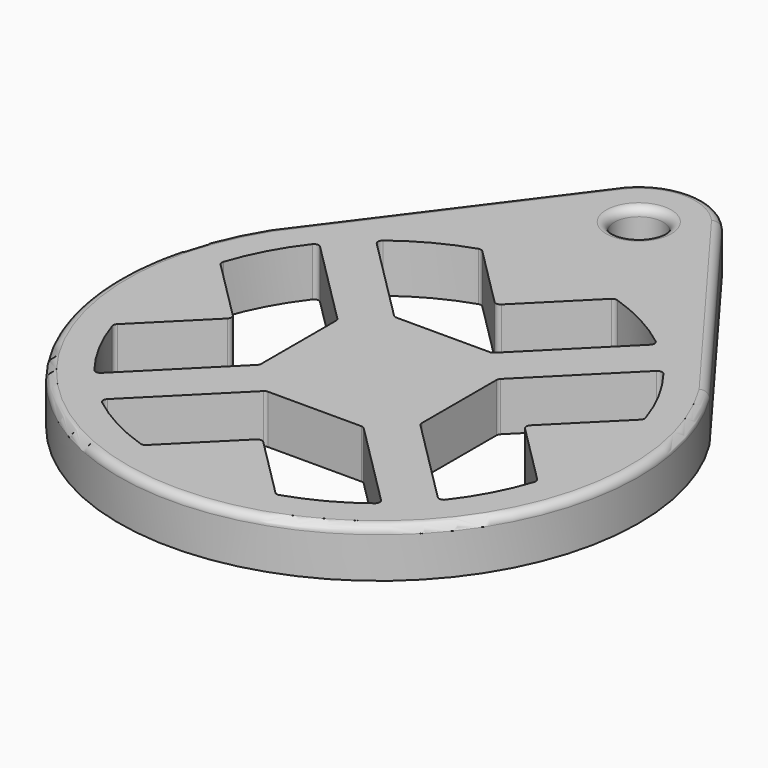
from build123d import *

# Parameters (mm, degrees)
SKETCH_R           = 1.5
PAD_DEPTH          = 3
FILLET_R           = 0.5
POCKET_DEPTH       = 105.626533
FILLET001_R        = 0.3
POLARPATTERN_COUNT = 4
FILLET002_R        = 0.3
FILLET003_R        = 0.3
FILLET004_R        = 0.3


with BuildPart() as part:
    # Sketch → Pad (new body)
    with BuildSketch(Plane.XY):
        with BuildLine():
            Line((-13.555442, 8.5), (-3.039737, 22.6))
            ThreePointArc((3.039737, 22.6), (0, 24), (-3.039737, 22.6))
            Line((3.039737, 22.6), (13.555442, 8.5))
            ThreePointArc((-13.555442, 8.5), (0, -16), (13.555442, 8.5))
        make_face()
        with Locations((0, 20)):
            Circle(SKETCH_R, mode=Mode.SUBTRACT)
    extrude(amount=PAD_DEPTH)

    # Fillet
    fillet_edges = [part.edges().sort_by_distance(p)[0] for p in [
        (8.297589, 15.55, 3),
        (0, -16, 3),
        (-8.297589, 15.55, 3),
        (0, 24, 3),
        (-1.5, 20, 3),
    ]]
    fillet(fillet_edges, radius=FILLET_R)

    # Sketch001 (on Face6 of Pad) → Pocket (cut, through all)
    with BuildSketch(Plane(origin=(0, 0, 0), x_dir=(1, 0, 0), z_dir=(0, 0, -1))):
        with BuildLine():
            Line((-3, 4.94), (3, 4.94))
            Line((3, 4.94), (8.656854, 10.596854))
            ThreePointArc((8.656854, 10.596854), (6.496296, 12.042948), (4.101219, 13.054288))
            Line((4.101219, 13.054288), (0, 8.953069))
            Line((0, 8.953069), (-4.101219, 13.054288))
            ThreePointArc((-4.101219, 13.054288), (-6.496296, 12.042948), (-8.656854, 10.596854))
            Line((-8.656854, 10.596854), (-3, 4.94))
        make_face()
    pocket = extrude(amount=-POCKET_DEPTH, mode=Mode.SUBTRACT)

    # Fillet001
    fillet001_edges = [part.edges().sort_by_distance(p)[0] for p in [
        (-3, -4.94, 1.5),
        (3, -4.94, 1.5),
        (-8.656854, -10.596854, 1.5),
        (0, -8.953069, 1.5),
        (8.656854, -10.596854, 1.5),
        (4.101219, -13.054288, 1.5),
        (-4.101219, -13.054288, 1.5),
    ]]
    fillet(fillet001_edges, radius=FILLET001_R)

    # PolarPattern: Pocket ×4 about axis
    polarpattern_axis = Axis((0, 0, 0), (0, 0, -1))
    for i in range(1, POLARPATTERN_COUNT):
        add(pocket.rotate(polarpattern_axis, i * 360 / POLARPATTERN_COUNT), mode=Mode.SUBTRACT)

    # Fillet002
    fillet002_edges = [part.edges().sort_by_distance(p)[0] for p in [
        (10.596854, 8.656854, 1.5),
        (8.953069, 0, 1.5),
        (13.054288, 4.101219, 1.5),
        (13.054288, -4.101219, 1.5),
        (4.94, 3, 1.5),
        (4.94, -3, 1.5),
        (10.596854, -8.656854, 1.5),
    ]]
    fillet(fillet002_edges, radius=FILLET002_R)

    # Fillet003
    fillet003_edges = [part.edges().sort_by_distance(p)[0] for p in [
        (-10.596854, -8.656854, 1.5),
        (-8.953069, 0, 1.5),
        (-13.054288, 4.101219, 1.5),
        (-13.054288, -4.101219, 1.5),
        (-4.94, 3, 1.5),
        (-4.94, -3, 1.5),
        (-10.596854, 8.656854, 1.5),
    ]]
    fillet(fillet003_edges, radius=FILLET003_R)

    # Fillet004
    fillet004_edges = [part.edges().sort_by_distance(p)[0] for p in [
        (-8.656854, 10.596854, 1.5),
        (-3, 4.94, 1.5),
        (3, 4.94, 1.5),
        (8.656854, 10.596854, 1.5),
        (0, 8.953069, 1.5),
        (-4.101219, 13.054288, 1.5),
        (4.101219, 13.054288, 1.5),
    ]]
    fillet(fillet004_edges, radius=FILLET004_R)


solid = part.part
